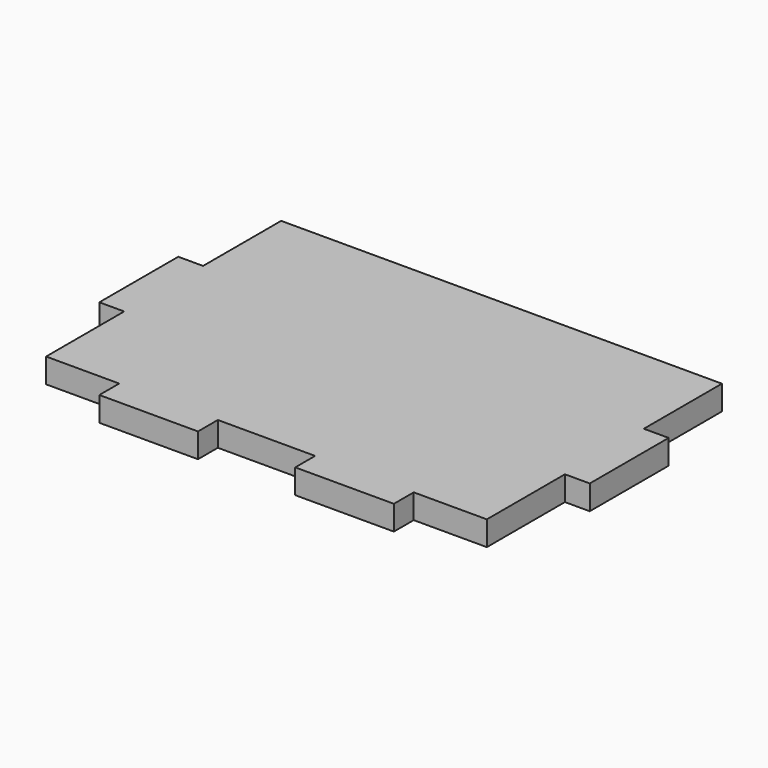
from build123d import *

# Parameters (mm, degrees)
F0_W     = 6.4389
F0_H     = 25.5778
F0_W_2   = 25.5778
F0_H_2   = 6.4389
F1_DEPTH = 6.35


with BuildPart() as f1:
    # F0 (on Top) → F1 (new body)
    with BuildSketch(Plane.XY):
        Polygon((0, 25.3111), (0, 0), (18.9611, 0), (44.5389, 0), (69.7611, 0), (95.3389, 0), (114.3, 0), (114.3, 25.3111), (114.3, 50.8889), (114.3, 76.2), (0, 76.2), (0, 50.8889), align=None)
        with Locations((-3.21945, 38.1)):
            Rectangle(F0_W, F0_H)
        with Locations((31.75, -3.21945)):
            Rectangle(F0_W_2, F0_H_2)
        with Locations((82.55, -3.21945)):
            Rectangle(F0_W_2, F0_H_2)
        with Locations((117.51945, 38.1)):
            Rectangle(F0_W, F0_H)
    extrude(amount=F1_DEPTH)


solid = f1.part
